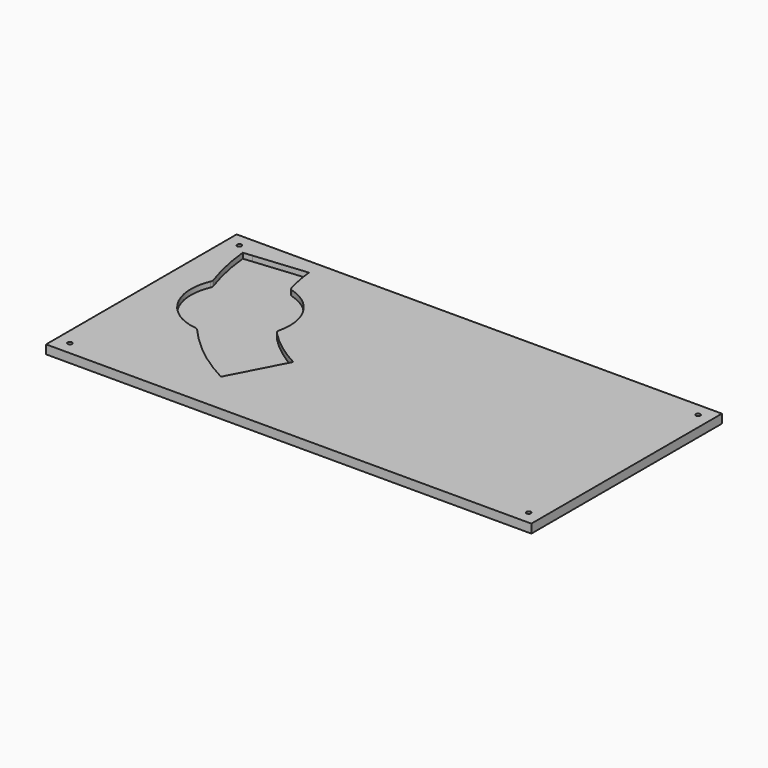
from build123d import *

# Parameters (mm, degrees)
F0_W     = 550
F0_H     = 270
F1_DEPTH = 10
F3_DEPTH = 6
F2_R     = 2.5
F4_DEPTH = 25
F5_R     = 5


with BuildPart() as f1:
    # F0 (on Top) → F1 (new body)
    with BuildSketch(Plane.XY):
        with Locations((275, -135)):
            Rectangle(F0_W, F0_H)
    extrude(amount=-F1_DEPTH)

    # F2 (on face) → F3 (cut)
    with BuildSketch(Plane.XY):
        with BuildLine():
            ThreePointArc((93.8406279725, -17.4723188671), (96.3763447636, -34.89397928), (100.5834584289, -51.9891337337))
            ThreePointArc((100.5834584289, -51.9891337337), (101.702824577, -52.2182469254), (102.8172889589, -52.4701250099))
            ThreePointArc((102.8172889589, -52.4701250099), (98.4454239564, -35.0497029669), (95.8313903025, -17.2803153631))
            Line((95.8313903025, -17.2803153631), (93.8406279725, -17.4723188671))
        make_face()
        with BuildLine():
            ThreePointArc((36.6062109858, -22.9924196081), (40.2678425285, -47.5506492992), (46.4524007703, -71.5977994519))
            ThreePointArc((46.4524007703, -71.5977994519), (70.8084957225, -54.3138897804), (100.5834584289, -51.9891337337))
            ThreePointArc((100.5834584289, -51.9891337337), (96.3763447636, -34.89397928), (93.8406279725, -17.4723188671))
            Line((93.8406279725, -17.4723188671), (36.6062109858, -22.9924196081))
        make_face()
        with BuildLine():
            ThreePointArc((26.1547087534, -24.0004380043), (30.8880481953, -53.9384370008), (39.2095922874, -83.0835942334))
            ThreePointArc((39.2095922874, -83.0835942334), (42.4819606163, -77.1205988593), (46.4524007703, -71.5977994519))
            ThreePointArc((46.4524007703, -71.5977994519), (40.2678425285, -47.5506492992), (36.6062109858, -22.9924196081))
            Line((36.6062109858, -22.9924196081), (26.1547087534, -24.0004380043))
        make_face()
        with BuildLine():
            ThreePointArc((39.2095922874, -83.0835942334), (41.3696850637, -135.0845918815), (85.359218008, -162.8998889056))
            ThreePointArc((85.359218008, -162.8998889056), (58.5731428007, -125.1375862115), (39.2095922874, -83.0835942334))
        make_face()
        with BuildLine():
            ThreePointArc((39.2095922874, -83.0835942334), (58.5731428007, -125.1375862115), (85.359218008, -162.8998889056))
            ThreePointArc((85.359218008, -162.8998889056), (92.159689712, -163.0387878421), (98.9269281749, -162.353082441))
            ThreePointArc((98.9269281749, -162.353082441), (67.6630708031, -119.8818075906), (46.4524007703, -71.5977994519))
            ThreePointArc((46.4524007703, -71.5977994519), (42.4819606163, -77.1205988593), (39.2095922874, -83.0835942334))
        make_face()
        with BuildLine():
            ThreePointArc((46.4524007703, -71.5977994519), (67.6630708031, -119.8818075906), (98.9269281749, -162.353082441))
            ThreePointArc((98.9269281749, -162.353082441), (126.0574308053, -149.8675419291), (142.9268949098, -125.2225814773))
            ThreePointArc((142.9268949098, -125.2225814773), (117.4412479589, -91.100162762), (100.5834584289, -51.9891337337))
            ThreePointArc((100.5834584289, -51.9891337337), (70.8084957225, -54.3138897804), (46.4524007703, -71.5977994519))
        make_face()
        with BuildLine():
            ThreePointArc((100.5834584289, -51.9891337337), (117.4412479589, -91.100162762), (142.9268949098, -125.2225814773))
            ThreePointArc((142.9268949098, -125.2225814773), (143.2867819227, -124.1381669965), (143.6244940218, -123.0466433063))
            ThreePointArc((143.6244940218, -123.0466433063), (119.1726628165, -90.0990620723), (102.8172889589, -52.4701250099))
            ThreePointArc((102.8172889589, -52.4701250099), (101.702824577, -52.2182469254), (100.5834584289, -51.9891337337))
        make_face()
        with BuildLine():
            ThreePointArc((102.8172889589, -52.4701250099), (119.1726628165, -90.0990620723), (143.6244940218, -123.0466433063))
            ThreePointArc((143.6244940218, -123.0466433063), (145.375436454, -115.11981647), (145.9631920321, -107.023216784))
            ThreePointArc((145.9631920321, -107.023216784), (133.8730301026, -72.2467564476), (102.8172889589, -52.4701250099))
        make_face()
        with BuildLine():
            ThreePointArc((142.9268949098, -125.2225814773), (165.4491613095, -145.3362093293), (190.9870540226, -161.4491403142))
            Line((190.9870540226, -161.4491403142), (191.9102732092, -159.6749739371))
            ThreePointArc((191.9102732092, -159.6749739371), (166.2146946142, -143.4076613439), (143.6244940218, -123.0466433063))
            ThreePointArc((143.6244940218, -123.0466433063), (143.2867819227, -124.1381669965), (142.9268949098, -125.2225814773))
        make_face()
        with BuildLine():
            ThreePointArc((98.9269281749, -162.353082441), (129.5126452175, -190.2463655327), (164.4445024089, -212.4564236553))
            Line((164.4445024089, -212.4564236553), (190.9870540226, -161.4491403142))
            ThreePointArc((190.9870540226, -161.4491403142), (165.4491613095, -145.3362093293), (142.9268949098, -125.2225814773))
            ThreePointArc((142.9268949098, -125.2225814773), (126.0574308053, -149.8675419291), (98.9269281749, -162.353082441))
        make_face()
        with BuildLine():
            ThreePointArc((85.359218008, -162.8998889056), (119.6639725539, -195.884452107), (159.5976016794, -221.7707971349))
            Line((159.5976016794, -221.7707971349), (164.4445024089, -212.4564236553))
            ThreePointArc((164.4445024089, -212.4564236553), (129.5126452175, -190.2463655327), (98.9269281749, -162.353082441))
            ThreePointArc((98.9269281749, -162.353082441), (92.159689712, -163.0387878421), (85.359218008, -162.8998889056))
        make_face()
    extrude(amount=-F3_DEPTH, mode=Mode.SUBTRACT)

    # F2 (on face) → F4 (cut)
    with BuildSketch(Plane.XY):
        with BuildLine():
            ThreePointArc((17.5, -255), (13.232233047, -253.232233047), (15, -257.5))
            ThreePointArc((15, -257.5), (16.767766953, -256.767766953), (17.5, -255))
        make_face()
        with Locations((15, -15)):
            Circle(F2_R)
        with BuildLine():
            ThreePointArc((537.5, -15), (536.767766953, -13.232233047), (535, -12.5))
            ThreePointArc((535, -12.5), (533.232233047, -16.767766953), (537.5, -15))
        make_face()
        with Locations((535, -255)):
            Circle(F2_R)
    extrude(amount=-F4_DEPTH, mode=Mode.SUBTRACT)

    # F5
    f5_edges = [f1.edges().sort_by_distance(p)[0] for p in [
        (102.817289, -52.470125, -3),
        (143.624494, -123.046643, -3),
        (85.359218, -162.899889, -3),
        (39.209592, -83.083594, -3),
    ]]
    fillet(f5_edges, radius=F5_R)


solid = f1.part
